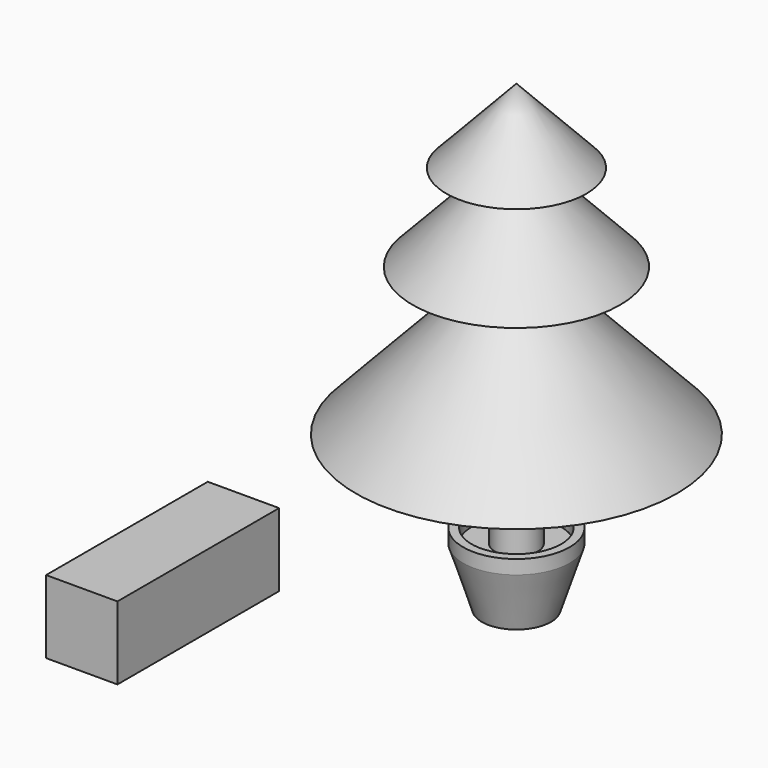
from build123d import *

# Parameters (mm, degrees)
F2_W     = 17.653886
F2_H     = 18.089779
F3_DEPTH = 50


with BuildPart() as f1:
    # F0 (on Front) → F1 (revolve)
    with BuildSketch(Plane.XZ):
        Polygon((0, 53.881627), (0, 19.742727), (0, -60.613636), (8.543639, -60.613636), (13.161818, -46.297271), (13.161818, -42.833637), (11.083637, -42.833637), (11.083637, -46.297271), (5.310907, -46.297271), (5.310907, -30.826364), (5.310907, -22.513635), (39.716367, -22.513635), (5.310907, 13.970001), (25.63091, 13.970001), (5.310907, 35.517383), (17.318182, 35.517383), align=None)
    revolve(axis=Axis((0, 0, -20.435454), (0, 0, -1)))


with BuildPart() as f3:
    # F2 (on Front) → F3 (new body)
    with BuildSketch(Plane.XZ):
        with Locations((-67.532061, -66.723879)):
            Rectangle(F2_W, F2_H)
    extrude(amount=F3_DEPTH)


solid = Compound([f1.part, f3.part])
